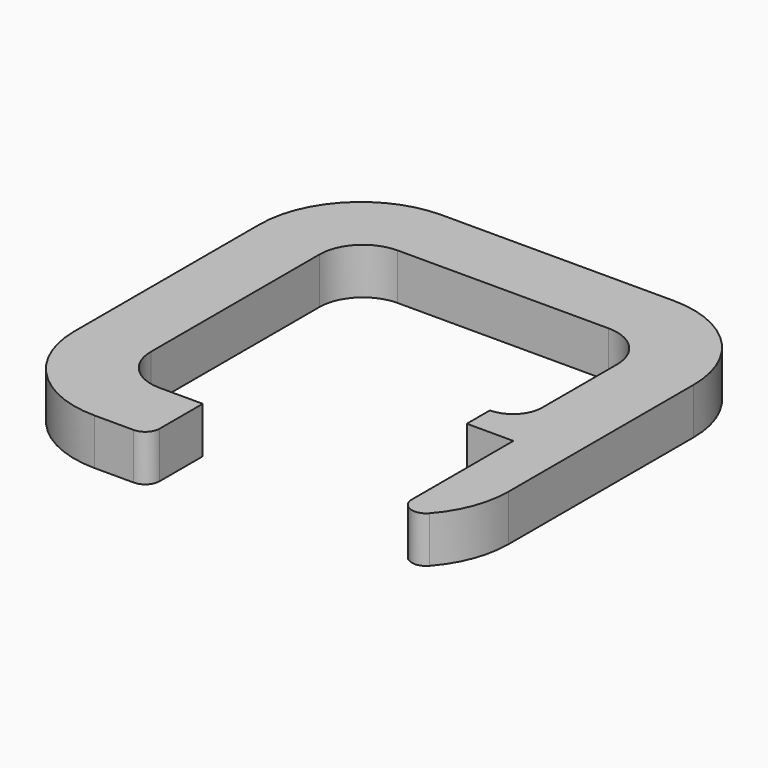
from build123d import *

# Parameters (mm, degrees)
F1_DEPTH = 3.2


with BuildPart() as f1:
    # F0 (on Top) → F1 (new body)
    with BuildSketch(Plane.XY):
        with BuildLine():
            ThreePointArc((15, 8), (12.949747, 12.949747), (8, 15))
            Line((8, 15), (-8, 15))
            ThreePointArc((-8, 15), (-12.949747, 12.949747), (-15, 8))
            Line((-15, 8), (-15, -8))
            ThreePointArc((-15, -8), (-12.949747, -12.949747), (-8, -15))
            Line((-8, -15), (-5.3, -15))
            ThreePointArc((-5.3, -15), (-4.592893, -14.707107), (-4.3, -14))
            Line((-4.3, -14), (-4.3, -10.283518))
            Line((-4.3, -10.283518), (-7.283518, -10.283518))
            ThreePointArc((-7.283518, -10.283518), (-9.404838, -9.404838), (-10.283518, -7.283518))
            Line((-10.283518, -7.283518), (-10.283518, 7.283518))
            ThreePointArc((-10.283518, 7.283518), (-9.404838, 9.404838), (-7.283518, 10.283518))
            Line((-7.283518, 10.283518), (7.283518, 10.283518))
            ThreePointArc((7.283518, 10.283518), (9.404838, 9.404838), (10.283518, 7.283518))
            Line((10.283518, 7.283518), (10.283518, 0.8))
            ThreePointArc((10.283518, 0.8), (9.697731, -0.614214), (8.283518, -1.2))
            Line((8.283518, -1.2), (8.283518, -3.2))
            Line((8.283518, -3.2), (10.283518, -3.2))
            Line((10.283518, -3.2), (11.5, -3.2))
            Line((11.5, -3.2), (11.5, -11.968627))
            ThreePointArc((11.5, -11.968627), (12.146447, -12.904041), (13.25, -12.630065))
            ThreePointArc((13.25, -12.630065), (14.5479, -10.474874), (15, -8))
            Line((15, -8), (15, 8))
        make_face()
    extrude(amount=F1_DEPTH)


solid = f1.part
